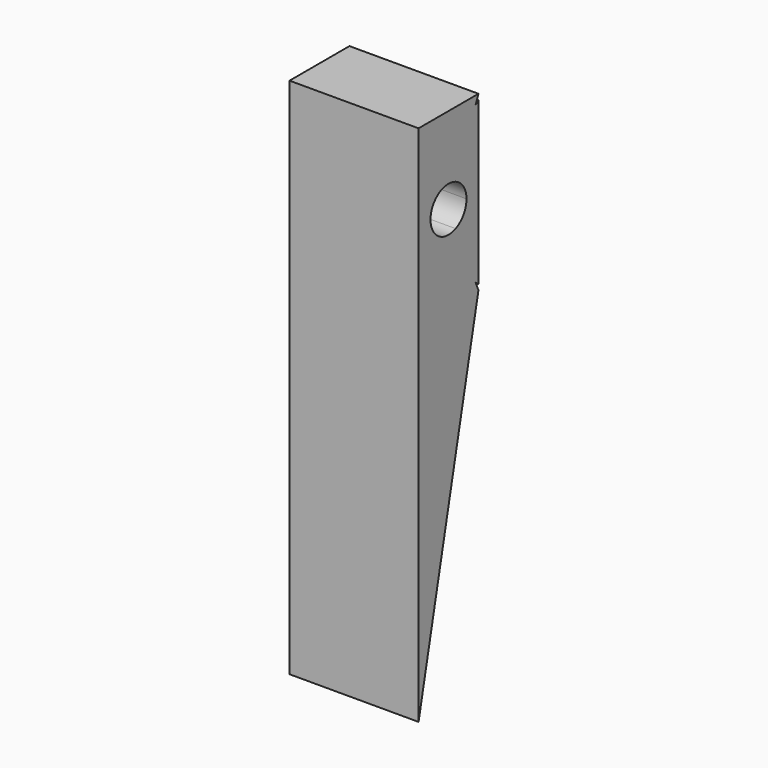
from build123d import *

# Parameters (mm, degrees)
F1_DEPTH = 11.43


with BuildPart() as f1:
    # F0 (on Right) → F1 (new body)
    with BuildSketch(Plane.YZ):
        Polygon((3.3542175311, -1.5767664933), (1.4732253194, 2.7673263745), (1.4732253194, -3.1085191088), align=None)
        Polygon((7.7828650435, 2.029623989), (8.1059029485, 2.775669959), (1.4732253194, 2.775669959), (1.4732253194, 2.7673263745), (3.3542175311, -1.5767664933), align=None)
        with BuildLine():
            Line((8.1059029485, -12.0676500307), (8.1059029485, 2.2926841722))
            Line((8.1059029485, 2.2926841722), (7.7828650435, 2.029623989))
            Line((7.7828650435, 2.029623989), (5.5800336964, -3.0577463276))
            ThreePointArc((5.5800336964, -3.0577463276), (6.4543945145, -3.7929697506), (6.7816577479, -4.8874829292))
            ThreePointArc((6.7816577479, -4.8874829292), (6.4543945145, -5.9819961078), (5.5800336964, -6.7172195309))
            Line((5.5800336964, -6.7172195309), (7.7828650435, -11.8045898475))
            Line((7.7828650435, -11.8045898475), (8.1059029485, -12.0676500307))
        make_face()
        Polygon((1.4732253194, -12.5422922329), (8.1022901764, -12.5422922329), (7.7828650435, -11.8045898475), (3.3542175311, -8.1981993651), align=None)
        Polygon((3.3542175311, -8.1981993651), (1.4732253194, -6.6664467497), (1.4732253194, -12.5422922329), align=None)
        with BuildLine():
            Line((3.3542175311, -8.1981993651), (7.7828650435, -11.8045898475))
            Line((7.7828650435, -11.8045898475), (5.5800336964, -6.7172195309))
            ThreePointArc((5.5800336964, -6.7172195309), (4.7877577479, -6.8813829292), (3.9954817993, -6.7172195309))
            Line((3.9954817993, -6.7172195309), (3.3542175311, -8.1981993651))
        make_face()
        with BuildLine():
            Line((1.4732253194, -3.1085191088), (1.4732253194, -6.6664467497))
            Line((1.4732253194, -6.6664467497), (3.3542175311, -8.1981993651))
            Line((3.3542175311, -8.1981993651), (3.9954817993, -6.7172195309))
            ThreePointArc((3.9954817993, -6.7172195309), (2.7938577479, -4.8874829292), (3.9954817993, -3.0577463276))
            Line((3.9954817993, -3.0577463276), (3.3542175311, -1.5767664933))
            Line((3.3542175311, -1.5767664933), (1.4732253194, -3.1085191088))
        make_face()
        with BuildLine():
            Line((5.5800336964, -3.0577463276), (7.7828650435, 2.029623989))
            Line((7.7828650435, 2.029623989), (3.3542175311, -1.5767664933))
            Line((3.3542175311, -1.5767664933), (3.9954817993, -3.0577463276))
            ThreePointArc((3.9954817993, -3.0577463276), (4.7877577479, -2.8935829292), (5.5800336964, -3.0577463276))
        make_face()
        Polygon((1.4732253194, -43.5194037855), (7.0256497619, -17.5874829292), (1.4732253194, -17.5874829292), align=None)
        Polygon((1.4732253194, -17.5874829292), (7.0256497619, -17.5874829292), (8.1047075663, -12.5478751196), (8.1022901764, -12.5422922329), (1.4732253194, -12.5422922329), align=None)
    extrude(amount=-F1_DEPTH)


solid = f1.part
